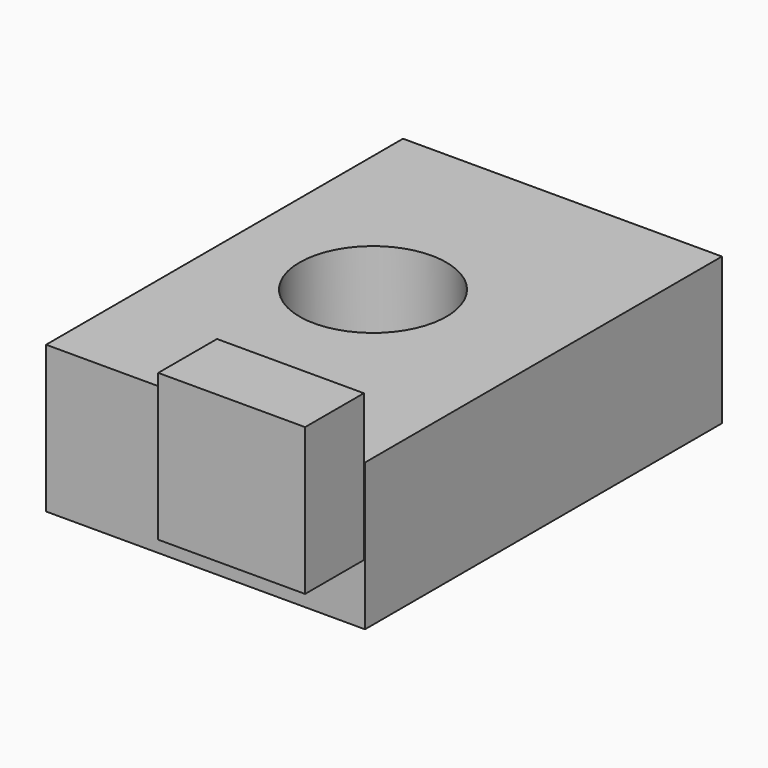
from build123d import *

# Parameters (mm, degrees)
F0_W     = 55.156417
F0_H     = 77.16199
F1_DEPTH = 25.4
F3_D     = 25.4
F4_W     = 25.4
F4_H     = 25.4
F5_DEPTH = 12.7


with BuildPart() as f1:
    # F0 (on Top) → F1 (new body)
    with BuildSketch(Plane.XY):
        with Locations((-27.578208, 38.580995)):
            Rectangle(F0_W, F0_H)
    extrude(amount=F1_DEPTH)

    # F3 (through all)
    with Locations(Plane.XY.offset(25.4)):
        with Locations((-30.758334, 40.183466)):
            Hole(F3_D / 2)

    # F4 (on face) → F5 (join)
    with BuildSketch(Plane.XZ):
        with Locations((-12.898058, 23.184226)):
            Rectangle(F4_W, F4_H)
    extrude(amount=F5_DEPTH)


solid = f1.part
